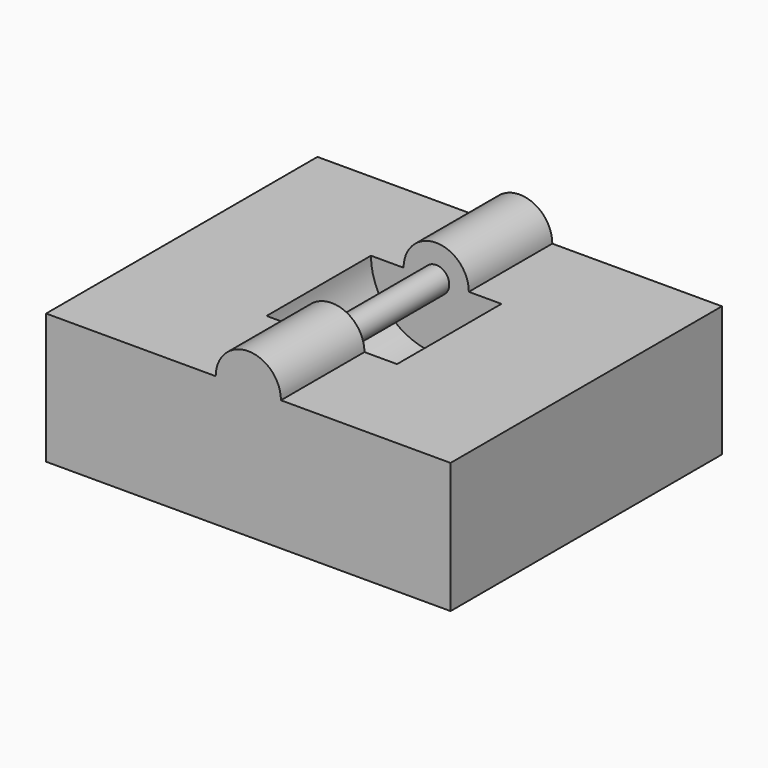
from build123d import *

# Parameters (mm, degrees)
F0_W     = 31
F0_H     = 10
F1_DEPTH = 13
F2_R     = 1
F3_DEPTH = 20
F4_R     = 2.5
F5_DEPTH = 10
F6_R     = 2.5
F7_DEPTH = 10
F8_R     = 5
F8_R_2   = 1
F9_DEPTH = 5


with BuildPart() as f1:
    # F0 (on Front) → F1 (new body, symmetric)
    with BuildSketch(Plane.XZ):
        with Locations((15.5, 5)):
            Rectangle(F0_W, F0_H)
    extrude(amount=F1_DEPTH, both=True)

    # F2 (on face) → F3 (join)
    with BuildSketch(Plane.XZ.offset(13)):
        with Locations((15.5, 10)):
            Circle(F2_R)
    extrude(amount=-F3_DEPTH)

    # F4 (on face) → F5 (join)
    with BuildSketch(Plane.XZ.offset(13)):
        with Locations((15.5, 10)):
            Circle(F4_R)
    extrude(amount=-F5_DEPTH)

    # F6 (on face) → F7 (join)
    with BuildSketch(Plane(origin=(0, 13, 0), x_dir=(-1, 0, 0), z_dir=(0, 1, 0))):
        with Locations((-15.5, 10)):
            Circle(F6_R)
    extrude(amount=-F7_DEPTH)

    # F8 (on Front) → F9 (cut, symmetric)
    with BuildSketch(Plane.XZ):
        with Locations((15.5, 10)):
            Circle(F8_R)
        with Locations((15.5, 10)):
            Circle(F8_R_2, mode=Mode.SUBTRACT)
    extrude(amount=F9_DEPTH, both=True, mode=Mode.SUBTRACT)


solid = f1.part
